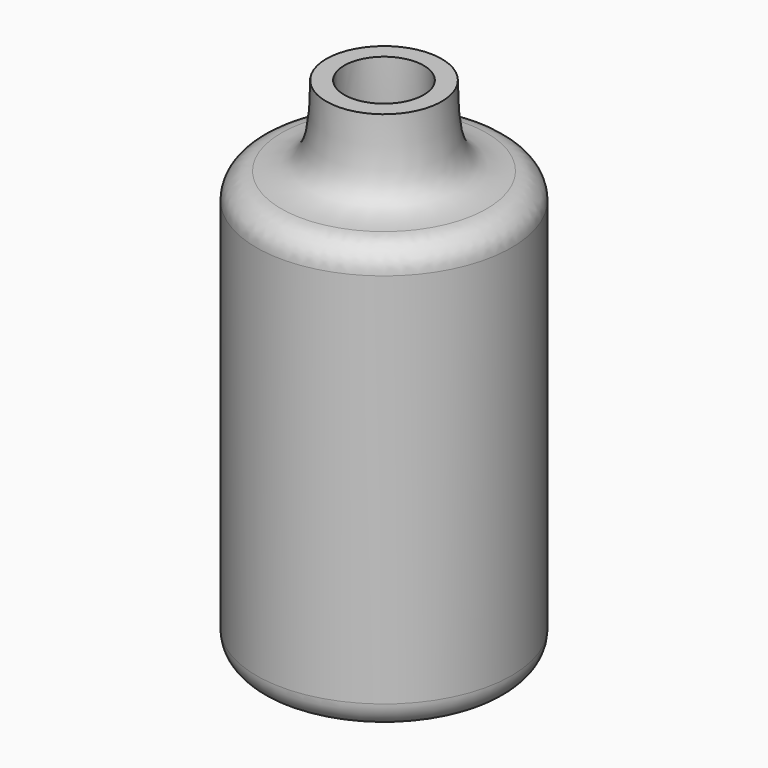
from build123d import *

# Parameters (mm, degrees)
F2_R = 5.08


with BuildPart() as f1:
    # F0 (on Front) → F1 (revolve)
    with BuildSketch(Plane.XZ):
        with BuildLine():
            add(Edge.make_bspline(
                [(-24.8879026622, 31.8933874369), (-20.6017141272, 31.6992866838), (-11.5009510836, 31.2871571318), (-11.333978859, 41.8115008895), (-11.2456455827, 47.3791919649)],
                knots=[0, 0, 0, 0, 0.4709702378, 1, 1, 1, 1], degree=3))
            Line((-24.8879026622, 31.8933874369), (-24.8879026622, -51.8037118018))
            Line((-24.8879026622, -51.8037118018), (0, -51.8037118018))
            Line((0, -51.8037118018), (0, -48.6473329365))
            Line((0, -48.6473329365), (-21.0779197514, -48.6473329365))
            Line((-21.0779197514, -48.6473329365), (-21.0779197514, 26.8034059554))
            add(Edge.make_bspline(
                [(-21.0779197514, 26.8034059554), (-17.0118151699, 26.6887101437), (-7.5695126443, 26.4223636859), (-7.6835473889, 39.7759896477), (-7.7484757639, 47.3791919649)],
                knots=[0, 0, 0, 0, 0.4306263828, 1, 1, 1, 1], degree=3))
            Line((-7.7484757639, 47.3791919649), (-11.2456455827, 47.3791919649))
        make_face()
    revolve(axis=Axis((0, 0, -2.2122599185), (0, 0, 1)))

    # F2
    f2_edges = [f1.edges().sort_by_distance(p)[0] for p in [
        (24.887903, 0, 31.893387),
        (24.887903, 0, -51.803712),
    ]]
    fillet(f2_edges, radius=F2_R)


solid = f1.part
